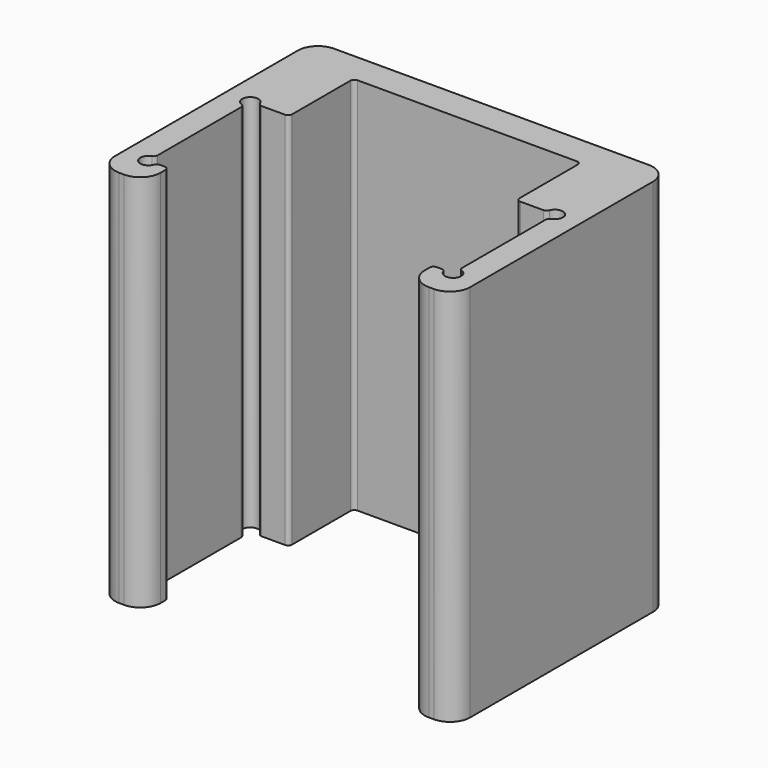
from build123d import *

# Parameters (mm, degrees)
PAD_DEPTH   = 37.5
FILLET_R    = 2
FILLET001_R = 0.4


with BuildPart() as part:
    # Sketch → Pad (new body)
    with BuildSketch(Plane.XY):
        with BuildLine():
            Line((0, 0), (4.5, 0))
            Line((4.5, 0), (4.5, 3))
            Line((4.5, 3), (3.3, 3))
            ThreePointArc((2.5, 3.8), (1.934315, 2.434315), (3.3, 3))
            Line((2.5, 14.8), (2.5, 3.8))
            ThreePointArc((3.3, 15.6), (1.934315, 16.165685), (2.5, 14.8))
            Line((6.325, 15.6), (3.3, 15.6))
            Line((6.325, 15.6), (6.325, 23.6))
            Line((6.325, 23.6), (28.825, 23.6))
            Line((28.825, 23.6), (28.825, 15.6))
            Line((28.825, 15.6), (31.85, 15.6))
            ThreePointArc((32.65, 14.8), (33.215685, 16.165685), (31.85, 15.6))
            Line((32.65, 14.8), (32.65, 3.8))
            ThreePointArc((31.85, 3), (33.215685, 2.434315), (32.65, 3.8))
            Line((30.65, 3), (31.85, 3))
            Line((30.65, 3), (30.65, 0))
            Line((30.65, 0), (35.15, 0))
            Line((35.15, 0), (35.15, 26.6))
            Line((35.15, 26.6), (0, 26.6))
            Line((0, 26.6), (0, 0))
        make_face()
    extrude(amount=PAD_DEPTH)

    # Fillet
    fillet_edges = [part.edges().sort_by_distance(p)[0] for p in [
        (0, 26.6, 18.75),
        (0, 0, 18.75),
        (4.5, 0, 18.75),
        (30.65, 0, 18.75),
        (35.15, 0, 18.75),
        (35.15, 26.6, 18.75),
    ]]
    fillet(fillet_edges, radius=FILLET_R)

    # Fillet001
    fillet001_edges = [part.edges().sort_by_distance(p)[0] for p in [
        (6.325, 15.6, 18.75),
        (6.325, 23.6, 18.75),
        (28.825, 23.6, 18.75),
        (28.825, 15.6, 18.75),
        (4.5, 3, 18.75),
        (30.65, 3, 18.75),
        (3.3, 15.6, 18.75),
        (31.85, 15.6, 18.75),
        (2.5, 14.8, 18.75),
        (32.65, 14.8, 18.75),
        (3.3, 3, 18.75),
        (31.85, 3, 18.75),
        (32.65, 3.8, 18.75),
        (2.5, 3.8, 18.75),
    ]]
    fillet(fillet001_edges, radius=FILLET001_R)


solid = part.part
